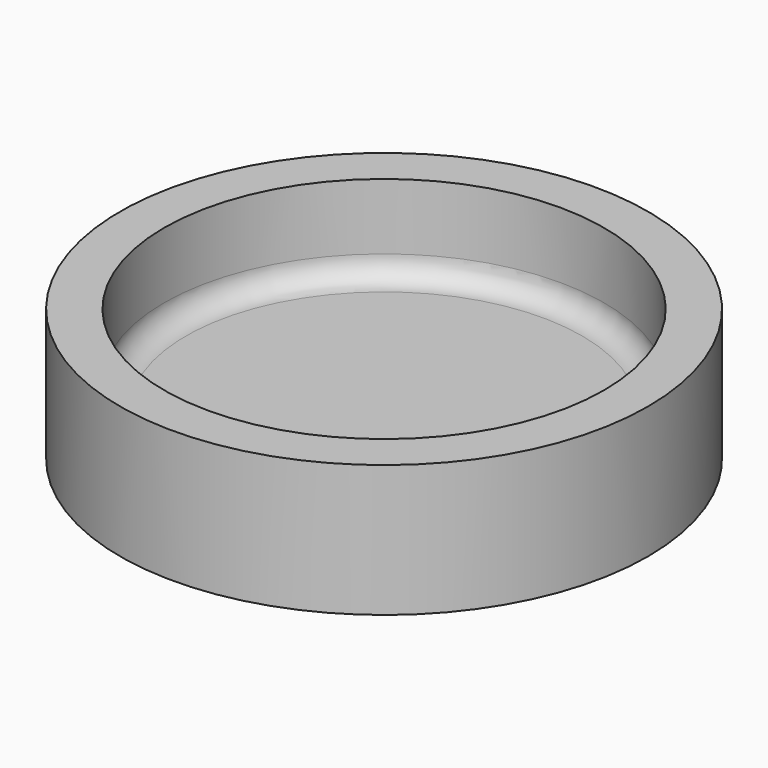
from build123d import *

# Parameters (mm, degrees)
F0_W = 6.35
F0_H = 12.7
F2_R = 3.175


with BuildPart() as f1:
    # F0 (on Front) → F1 (revolve)
    with BuildSketch(Plane.XZ):
        Polygon((31.75, 6.35), (0, 6.35), (0, 0), (38.1, 0), (38.1, 6.35), align=None)
        with Locations((34.925, 12.7)):
            Rectangle(F0_W, F0_H)
    revolve(axis=Axis((0, 0, 3.175), (0, 0, 1)))

    # F2
    f2_edges = [f1.edges().sort_by_distance(p)[0] for p in [
        (-31.75, 0, 6.35),
    ]]
    fillet(f2_edges, radius=F2_R)


solid = f1.part
